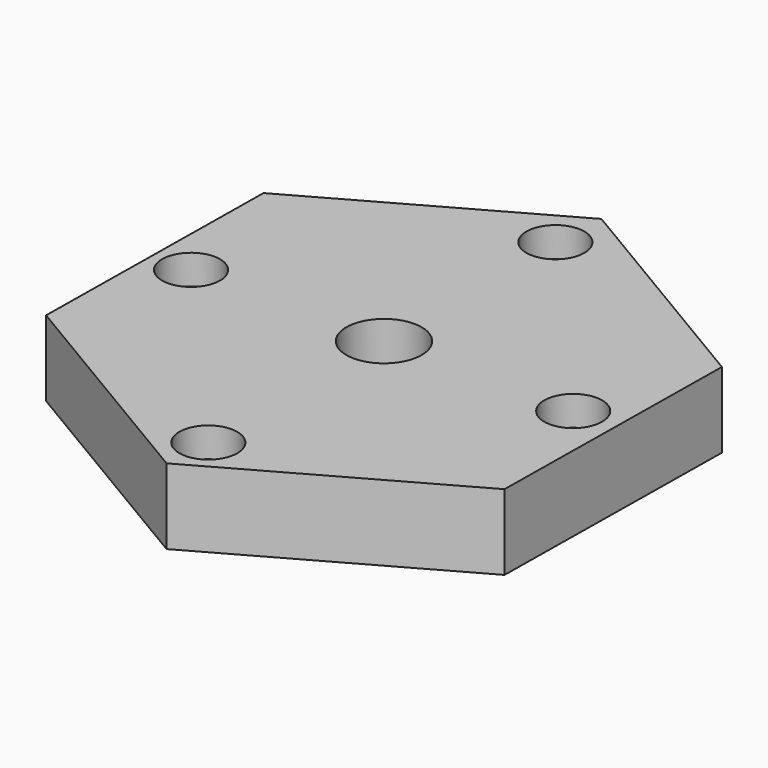
from build123d import *

# Parameters (mm, degrees)
F1_DEPTH       = 12.7
F3_D           = 5.5
F3_CBORE_D     = 9.75
F3_CBORE_DEPTH = 5
F4_R           = 6.336218
F5_DEPTH       = 25.4
F8_DEPTH       = 1.5875


with BuildPart() as f1:
    # F0 (on Top) → F1 (new body)
    with BuildSketch(Plane.XY):
        Polygon((-0.584762, -44.992867), (38.672585, -23.002853), (39.257347, 21.990015), (0.584762, 44.992867), (-38.672585, 23.002853), (-39.257347, -21.990015), align=None)
    extrude(amount=-F1_DEPTH)

    # F3 (through all)
    with Locations(Plane.XY):
        with Locations((0, -36.943253), (31.830151, 0), (0, 36.042843), (-32.459036, 0)):
            CounterBoreHole(F3_D / 2, F3_CBORE_D / 2, F3_CBORE_DEPTH)

    # F4 (on Top) → F5 (cut)
    with BuildSketch(Plane.XY):
        Circle(F4_R)
    extrude(amount=-F5_DEPTH, mode=Mode.SUBTRACT)

    # F7 (on offset) → F8 (cut)
    with BuildSketch(Plane.XY.offset(-12.7)):
        Polygon((36.793541, 20.338582), (0.783042, 42.033432), (-36.010499, 21.69485), (-36.793541, -20.338582), (-0.783042, -42.033432), (36.010499, -21.69485), align=None)
    extrude(amount=F8_DEPTH, mode=Mode.SUBTRACT)


solid = f1.part
